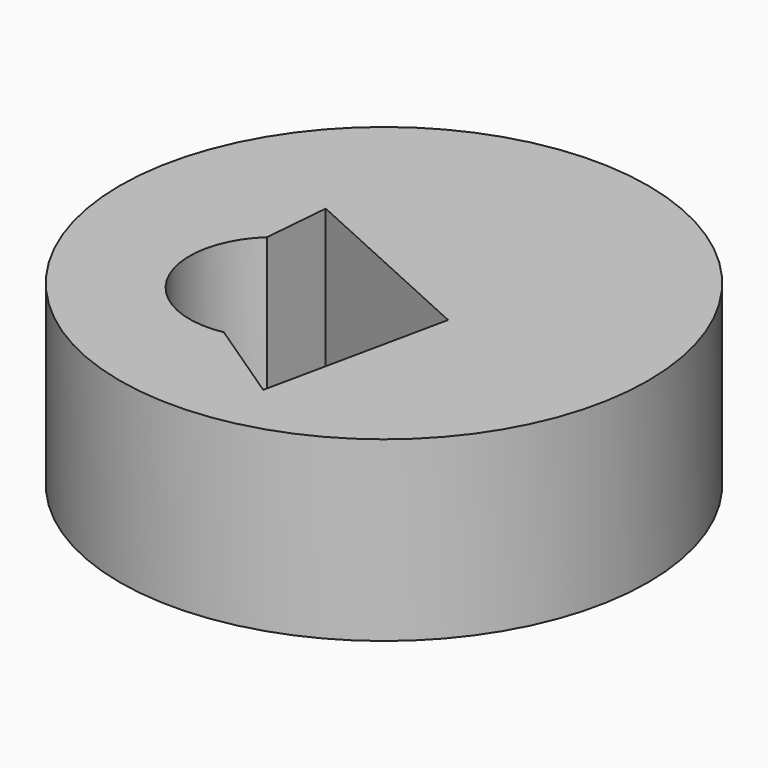
from build123d import *

# Parameters (mm, degrees)
F0_R     = 64.981725
F1_DEPTH = 43.688


with BuildPart() as f1:
    # F0 (on Top) → F1 (new body)
    with BuildSketch(Plane.XY):
        with Locations((0.413559, 21.689093)):
            Circle(F0_R)
        with BuildLine():
            ThreePointArc((-10.844308, -13.487255), (-33.549055, -2.321211), (-29.07878, 22.582658))
            Line((-29.07878, 22.582658), (-27.711418, 38.923074))
            Line((-27.711418, 38.923074), (19.608457, 17.407114))
            Line((19.608457, 17.407114), (10.033927, -27.479876))
            Line((10.033927, -27.479876), (-10.844308, -13.487255))
        make_face(mode=Mode.SUBTRACT)
    extrude(amount=F1_DEPTH)


solid = f1.part
